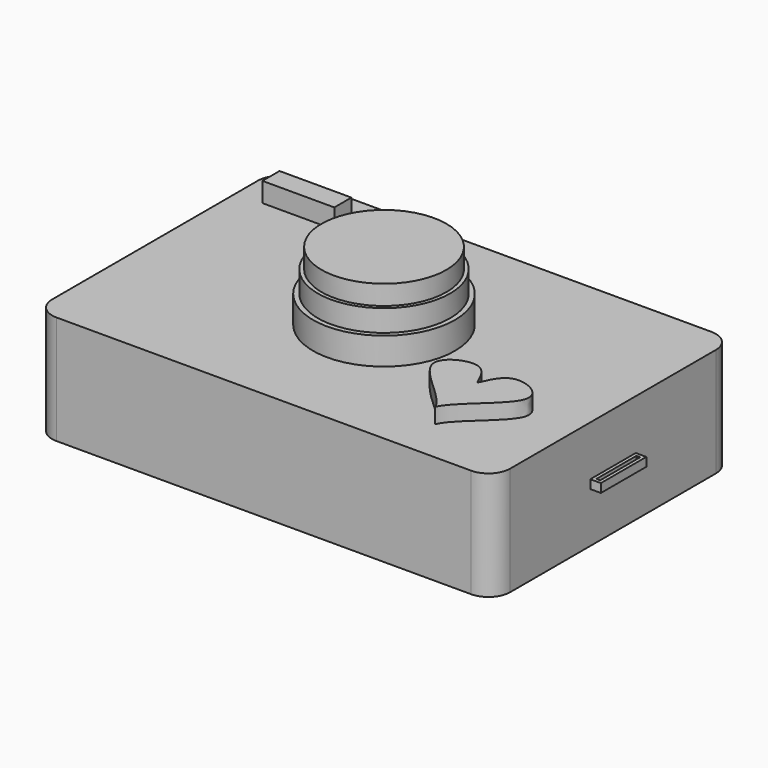
from build123d import *

# Parameters (mm, degrees)
F0_W      = 106.945887208
F0_H      = 70.1787695289
F1_DEPTH  = 25.4
F2_R      = 16.5647442007
F3_DEPTH  = 6.35
F4_R      = 15.4514430259
F4_R_2    = 14.5768166451
F5_DEPTH  = 5.08
F6_W      = 16.7820453644
F6_H      = 4.9917921424
F7_DEPTH  = 4.572
F9_DEPTH  = 3.556
F10_R     = 4.8749560022
F11_DEPTH = 2.794
F12_R     = 5.08
F15_W     = 2.4653045057
F15_H     = 13.2586471736
F15_W_2   = 0.8905041559
F15_H_2   = 11.6838468239
F16_DEPTH = 1.016
F17_W     = 63.2937094197
F17_H     = 55.5002773181
F17_R     = 2.1212827151
F17_R_2   = 2.2190878442
F17_R_3   = 2.2757544949
F18_DEPTH = 2
F19_DEPTH = 9.652


with BuildPart() as f1:
    # F0 (on Top) → F1 (new body)
    with BuildSketch(Plane.XY):
        Rectangle(F0_W, F0_H)
    extrude(amount=F1_DEPTH)

    # F2 (on face) → F3 (join)
    with BuildSketch(Plane.XY.offset(25.4)):
        Circle(F2_R)
    extrude(amount=F3_DEPTH)

    # F4 (on face) → F5 (join)
    with BuildSketch(Plane.XY.offset(31.75)):
        Circle(F4_R)
        Circle(F4_R_2, mode=Mode.SUBTRACT)
    extrude(amount=F5_DEPTH)

    # F6 (on face) → F7 (join)
    with BuildSketch(Plane.XY.offset(25.4)):
        with Locations((-38.8989336789, 26.1253975332)):
            Rectangle(F6_W, F6_H)
    extrude(amount=F7_DEPTH)

    # F8 (on face) → F9 (join)
    with BuildSketch(Plane.XY.offset(25.4)):
        with BuildLine():
            add(Edge.make_bspline(
                [(31.8442881107, -12.6362098381), (32.9562300538, -10.0665577137), (35.221941382, -4.8305919654), (48.841003928, -11.6298962751), (33.3513436417, -20.9799528384), (31.8442881107, -24.8728917222)],
                knots=[0, 0, 0, 0, 0.1573778113, 0.3206756361, 0.533694036, 0.533694036, 0.533694036, 0.533694036], degree=3))
            add(Edge.make_bspline(
                [(31.8442881107, -12.6362098381), (30.7323461677, -10.0665577137), (28.4666348395, -4.8305919654), (14.8475722934, -11.6298962751), (30.3372325798, -20.9799528384), (31.8442881107, -24.8728917222)],
                knots=[0, 0, 0, 0, 0.1573778113, 0.3206756361, 0.533694036, 0.533694036, 0.533694036, 0.533694036], degree=3))
        make_face()
    extrude(amount=F9_DEPTH)

    # F10 (on face) → F11 (join)
    with BuildSketch(Plane(origin=(0, 35.0893847644, 0), x_dir=(-1, 0, 0), z_dir=(0, 1, 0))):
        with Locations((38.4255424142, 17.5938177854)):
            Circle(F10_R)
    extrude(amount=F11_DEPTH)

    # F12
    f12_edges = [f1.edges().sort_by_distance(p)[0] for p in [
        (53.472944, 35.089385, 12.7),
        (53.472944, -35.089385, 12.7),
        (-53.472944, 35.089385, 12.7),
        (-53.472944, -35.089385, 12.7),
    ]]
    fillet(f12_edges, radius=F12_R)

    # F15 (on plane+point) → F16 (join, symmetric)
    with BuildSketch(Plane.XY.offset(12.7)):
        with Locations((54.7055958568, 0)):
            Rectangle(F15_W, F15_H)
        with Locations((54.7055958568, 0)):
            Rectangle(F15_W_2, F15_H_2, mode=Mode.SUBTRACT)
    extrude(amount=F16_DEPTH, both=True)

    # F17 (on Top) → F18 (cut)
    with BuildSketch(Plane.XY):
        with Locations((1.9618016668, 0.582842622)):
            Rectangle(F17_W, F17_H)
        with Locations((-40.4380485415, 15.8517025411)):
            Circle(F17_R)
        with Locations((-43.9564026892, 21.7156279832)):
            Circle(F17_R_2)
        with Locations((-36.268144846, 21.7156279832)):
            Circle(F17_R_3)
    extrude(amount=F18_DEPTH, mode=Mode.SUBTRACT)

    # F19 (add): a face of the model
    f19_faces = [f1.faces().sort_by_distance(p)[0] for p in [
        (0, 0, 31.75),
    ]]
    extrude(f19_faces, amount=F19_DEPTH)


solid = f1.part
